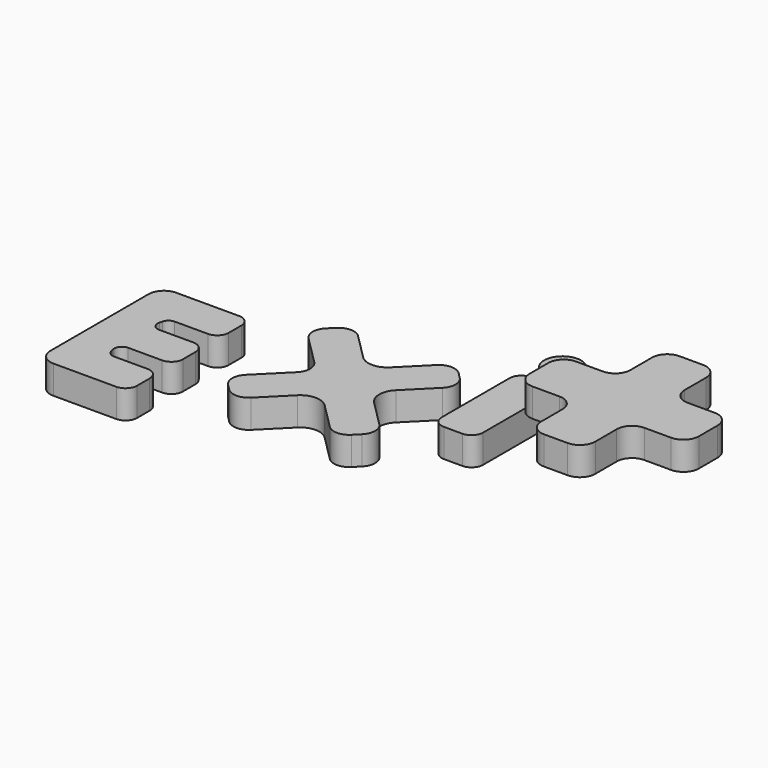
from build123d import *

# Parameters (mm, degrees)
F1_DEPTH = 9.398
F3_DEPTH = 9.398
F5_DEPTH = 9.398
F4_R     = 6.113799
F6_DEPTH = 9.398
F8_DEPTH = 9.398


with BuildPart() as f1:
    # F0 (on Top) → F1 (new body)
    with BuildSketch(Plane.XY):
        with BuildLine():
            Line((-56.560311, 20.664202), (-56.560311, 0.344202))
            Line((-56.560311, 0.344202), (-56.560311, -19.975798))
            ThreePointArc((-56.560311, -19.975798), (-55.072414, -23.5679), (-51.480311, -25.055798))
            Line((-51.480311, -25.055798), (-30.656733, -25.055798))
            ThreePointArc((-30.656733, -25.055798), (-27.962656, -23.939875), (-26.846733, -21.245798))
            Line((-26.846733, -21.245798), (-26.846733, -16.001206))
            ThreePointArc((-26.846733, -16.001206), (-27.962656, -13.307129), (-30.656733, -12.191206))
            Line((-30.656733, -12.191206), (-41.690991, -12.191206))
            ThreePointArc((-41.690991, -12.191206), (-43.264629, -11.645012), (-44.161486, -10.241334))
            Line((-44.161486, -10.241334), (-44.405878, -9.218222))
            ThreePointArc((-44.405878, -9.218222), (-43.929189, -7.054456), (-41.935382, -6.088094))
            Line((-41.935382, -6.088094), (-30.656733, -6.088094))
            ThreePointArc((-30.656733, -6.088094), (-27.962656, -4.97217), (-26.846733, -2.278094))
            Line((-26.846733, -2.278094), (-26.846733, 2.966498))
            ThreePointArc((-26.846733, 2.966498), (-27.962656, 5.660575), (-30.656733, 6.776498))
            Line((-30.656733, 6.776498), (-41.935383, 6.776498))
            ThreePointArc((-41.935383, 6.776498), (-43.929189, 7.74286), (-44.405879, 9.906626))
            Line((-44.405879, 9.906626), (-44.161486, 10.929747))
            ThreePointArc((-44.161486, 10.929747), (-43.264629, 12.333425), (-41.69099, 12.879619))
            Line((-41.69099, 12.879619), (-30.656733, 12.879619))
            ThreePointArc((-30.656733, 12.879619), (-27.962656, 13.995542), (-26.846733, 16.689619))
            Line((-26.846733, 16.689619), (-26.846733, 21.934202))
            ThreePointArc((-26.846733, 21.934202), (-27.962656, 24.628279), (-30.656733, 25.744202))
            Line((-30.656733, 25.744202), (-51.480311, 25.744202))
            ThreePointArc((-51.480311, 25.744202), (-55.072414, 24.256305), (-56.560311, 20.664202))
        make_face()
    extrude(amount=F1_DEPTH)


with BuildPart() as f3:
    # F2 (on face) → F3 (new body)
    with BuildSketch(Plane.XY.offset(9.398)):
        with BuildLine():
            ThreePointArc((11.5973, 22.1521), (8.005198, 23.639997), (4.413095, 22.1521))
            Line((4.413095, 22.1521), (2.50066, 20.239664))
            ThreePointArc((2.50066, 20.239664), (1.012762, 16.647562), (2.50066, 13.05546))
            Line((2.50066, 13.05546), (11.964017, 3.592102))
            ThreePointArc((11.964017, 3.592102), (13.451915, 0), (11.964017, -3.592102))
            Line((11.964017, -3.592102), (2.50066, -13.05546))
            ThreePointArc((2.50066, -13.05546), (1.012762, -16.647562), (2.50066, -20.239664))
            Line((2.50066, -20.239664), (4.413095, -22.1521))
            ThreePointArc((4.413095, -22.1521), (8.005198, -23.639997), (11.5973, -22.1521))
            Line((11.5973, -22.1521), (20.162632, -13.586768))
            ThreePointArc((20.162632, -13.586768), (24.65276, -11.726896), (29.142888, -13.586768))
            Line((29.142888, -13.586768), (37.708219, -22.1521))
            ThreePointArc((37.708219, -22.1521), (41.300322, -23.639997), (44.892424, -22.1521))
            Line((44.892424, -22.1521), (46.80486, -20.239664))
            ThreePointArc((46.80486, -20.239664), (48.292757, -16.647562), (46.80486, -13.05546))
            Line((46.80486, -13.05546), (38.239528, -4.490128))
            ThreePointArc((38.239528, -4.490128), (36.379656, 0), (38.239528, 4.490128))
            Line((38.239528, 4.490128), (46.80486, 13.05546))
            ThreePointArc((46.80486, 13.05546), (48.292757, 16.647562), (46.80486, 20.239664))
            Line((46.80486, 20.239664), (44.892424, 22.1521))
            ThreePointArc((44.892424, 22.1521), (41.300322, 23.639997), (37.708219, 22.1521))
            Line((37.708219, 22.1521), (29.142888, 13.586768))
            ThreePointArc((29.142888, 13.586768), (24.65276, 11.726896), (20.162632, 13.586768))
            Line((20.162632, 13.586768), (11.5973, 22.1521))
        make_face()
    extrude(amount=F3_DEPTH)


with BuildPart() as f5:
    # F4 (on face) → F5 (new body)
    with BuildSketch(Plane.XY.offset(18.796)):
        with BuildLine():
            Line((78.158188, 17.869434), (72.071638, 17.869434))
            ThreePointArc((72.071638, 17.869434), (69.377561, 16.753511), (68.261638, 14.059434))
            Line((68.261638, 14.059434), (68.261638, -14.059434))
            ThreePointArc((68.261638, -14.059434), (69.377561, -16.753511), (72.071638, -17.869434))
            Line((72.071638, -17.869434), (78.158188, -17.869434))
            ThreePointArc((78.158188, -17.869434), (80.852265, -16.753511), (81.968188, -14.059434))
            Line((81.968188, -14.059434), (81.968188, 14.059434))
            ThreePointArc((81.968188, 14.059434), (80.852265, 16.753511), (78.158188, 17.869434))
        make_face()
    extrude(amount=F5_DEPTH)


with BuildPart() as f6:
    # F4 (on face) → F6 (new body)
    with BuildSketch(Plane.XY.offset(18.796)):
        with Locations((75.114913, 27.407957)):
            Circle(F4_R)
    extrude(amount=F6_DEPTH)


with BuildPart() as f8:
    # F7 (on face) → F8 (new body)
    with BuildSketch(Plane.XY.offset(28.194)):
        with BuildLine():
            ThreePointArc((106.183127, 36.994592), (102.591025, 35.506694), (101.103127, 31.914592))
            Line((101.103127, 31.914592), (101.103127, 23.024592))
            ThreePointArc((101.103127, 23.024592), (99.615229, 19.43249), (96.023127, 17.944592))
            Line((96.023127, 17.944592), (87.133127, 17.944592))
            ThreePointArc((87.133127, 17.944592), (83.541025, 16.456694), (82.053127, 12.864592))
            Line((82.053127, 12.864592), (82.053127, 5.08))
            ThreePointArc((82.053127, 5.08), (83.541025, 1.487898), (87.133127, 0))
            Line((87.133127, 0), (96.023127, 0))
            ThreePointArc((96.023127, 0), (99.615229, -1.487898), (101.103127, -5.08))
            Line((101.103127, -5.08), (101.103127, -13.97))
            ThreePointArc((101.103127, -13.97), (102.591025, -17.562102), (106.183127, -19.05))
            Line((106.183127, -19.05), (113.967719, -19.05))
            ThreePointArc((113.967719, -19.05), (117.559821, -17.562102), (119.047719, -13.97))
            Line((119.047719, -13.97), (119.047719, -5.08))
            ThreePointArc((119.047719, -5.08), (120.535617, -1.487898), (124.127719, 0))
            Line((124.127719, 0), (133.017719, 0))
            ThreePointArc((133.017719, 0), (136.609821, 1.487898), (138.097719, 5.08))
            Line((138.097719, 5.08), (138.097719, 12.864592))
            ThreePointArc((138.097719, 12.864592), (136.609821, 16.456694), (133.017719, 17.944592))
            Line((133.017719, 17.944592), (124.127719, 17.944592))
            ThreePointArc((124.127719, 17.944592), (120.535617, 19.43249), (119.047719, 23.024592))
            Line((119.047719, 23.024592), (119.047719, 31.914592))
            ThreePointArc((119.047719, 31.914592), (117.559821, 35.506694), (113.967719, 36.994592))
            Line((113.967719, 36.994592), (106.183127, 36.994592))
        make_face()
    extrude(amount=F8_DEPTH)


solid = Compound([f1.part, f3.part, f5.part, f6.part, f8.part])
